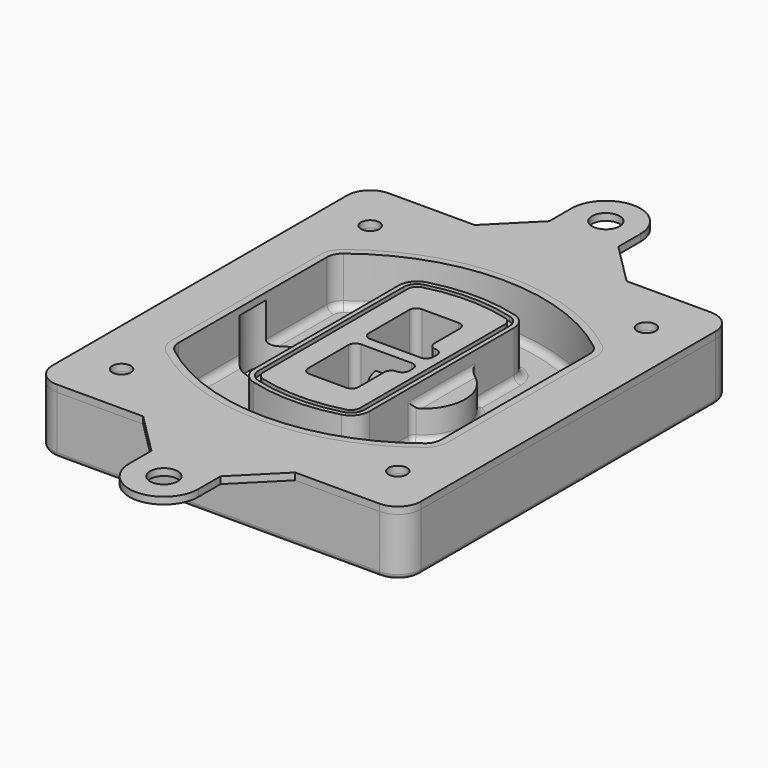
from build123d import *

# Parameters (mm, degrees)
F0_R      = 4
F1_DEPTH  = 25
F2_DEPTH  = 3
F3_DEPTH  = 18
F5_DEPTH  = 21
F6_DEPTH  = 2
F8_DEPTH  = 20
F9_DEPTH  = 16
F10_DEPTH = 25
F7_R      = 6
F7_R_2    = 4
F11_DEPTH = 6
F13_DEPTH = 9
F14_R     = 3
F15_R     = 2
F16_R     = 4
F16_R_2   = 6
F17_DEPTH = 3


with BuildPart() as f1:
    # F0 (on Top) → F1 (new body)
    with BuildSketch(Plane.XY):
        with BuildLine():
            ThreePointArc((-80, -80), (-77.0710678119, -87.0710678119), (-70, -90))
            Line((-70, -90), (70, -90))
            ThreePointArc((70, -90), (77.0710678119, -87.0710678119), (80, -80))
            Line((80, -80), (80, 80))
            ThreePointArc((80, 80), (77.0710678119, 87.0710678119), (70, 90))
            Line((70, 90), (-70, 90))
            ThreePointArc((-70, 90), (-77.0710678119, 87.0710678119), (-80, 80))
            Line((-80, 80), (-80, -80))
        make_face()
        with Locations((-60, -67.5)):
            Circle(F0_R, mode=Mode.SUBTRACT)
        with Locations((60, -67.5)):
            Circle(F0_R, mode=Mode.SUBTRACT)
        with Locations((-60, 67.5)):
            Circle(F0_R, mode=Mode.SUBTRACT)
        with BuildLine():
            ThreePointArc((-64, 40.2934422872), (-62.5820384798, 46.4328484224), (-58.6153846154, 51.3286200352))
            ThreePointArc((-58.6153846154, 51.3286200352), (0, 71.5), (58.6153846154, 51.3286200352))
            ThreePointArc((58.6153846154, 51.3286200352), (62.5820384798, 46.4328484224), (64, 40.2934422872))
            Line((64, 40.2934422872), (64, -40.2934422872))
            ThreePointArc((64, -40.2934422872), (62.5820384798, -46.4328484224), (58.6153846154, -51.3286200352))
            ThreePointArc((58.6153846154, -51.3286200352), (0, -71.5), (-58.6153846154, -51.3286200352))
            ThreePointArc((-58.6153846154, -51.3286200352), (-62.5820384798, -46.4328484224), (-64, -40.2934422872))
            Line((-64, -40.2934422872), (-64, 40.2934422872))
        make_face(mode=Mode.SUBTRACT)
        with Locations((60, 67.5)):
            Circle(F0_R, mode=Mode.SUBTRACT)
        with BuildLine():
            ThreePointArc((58.6153846154, 51.3286200352), (0, 71.5), (-58.6153846154, 51.3286200352))
            ThreePointArc((-58.6153846154, 51.3286200352), (-62.5820384798, 46.4328484224), (-64, 40.2934422872))
            Line((-64, 40.2934422872), (-64, -40.2934422872))
            ThreePointArc((-64, -40.2934422872), (-62.5820384798, -46.4328484224), (-58.6153846154, -51.3286200352))
            ThreePointArc((-58.6153846154, -51.3286200352), (0, -71.5), (58.6153846154, -51.3286200352))
            ThreePointArc((58.6153846154, -51.3286200352), (62.5820384798, -46.4328484224), (64, -40.2934422872))
            Line((64, -40.2934422872), (64, 40.2934422872))
            ThreePointArc((64, 40.2934422872), (62.5820384798, 46.4328484224), (58.6153846154, 51.3286200352))
        make_face()
        with BuildLine():
            Line((-60, -40.2934422872), (-60, 40.2934422872))
            ThreePointArc((-60, 40.2934422872), (-58.9871703427, 44.6787323838), (-56.1538461538, 48.1757121072))
            ThreePointArc((-56.1538461538, 48.1757121072), (0, 67.5), (56.1538461538, 48.1757121072))
            ThreePointArc((56.1538461538, 48.1757121072), (58.9871703427, 44.6787323838), (60, 40.2934422872))
            Line((60, 40.2934422872), (60, -40.2934422872))
            ThreePointArc((60, -40.2934422872), (58.9871703427, -44.6787323838), (56.1538461538, -48.1757121072))
            ThreePointArc((56.1538461538, -48.1757121072), (0, -67.5), (-56.1538461538, -48.1757121072))
            ThreePointArc((-56.1538461538, -48.1757121072), (-58.9871703427, -44.6787323838), (-60, -40.2934422872))
        make_face(mode=Mode.SUBTRACT)
        with BuildLine():
            ThreePointArc((-56.1538461538, 48.1757121072), (-58.9871703427, 44.6787323838), (-60, 40.2934422872))
            Line((-60, 40.2934422872), (-60, -40.2934422872))
            ThreePointArc((-60, -40.2934422872), (-58.9871703427, -44.6787323838), (-56.1538461538, -48.1757121072))
            ThreePointArc((-56.1538461538, -48.1757121072), (0, -67.5), (56.1538461538, -48.1757121072))
            ThreePointArc((56.1538461538, -48.1757121072), (58.9871703427, -44.6787323838), (60, -40.2934422872))
            Line((60, -40.2934422872), (60, 40.2934422872))
            ThreePointArc((60, 40.2934422872), (58.9871703427, 44.6787323838), (56.1538461538, 48.1757121072))
            ThreePointArc((56.1538461538, 48.1757121072), (0, 67.5), (-56.1538461538, 48.1757121072))
        make_face()
        with BuildLine():
            ThreePointArc((54.3076923077, 45.8110311612), (56.2910192399, 43.3631453548), (57, 40.2934422872))
            Line((57, 40.2934422872), (57, -40.2934422872))
            ThreePointArc((57, -40.2934422872), (56.2910192399, -43.3631453548), (54.3076923077, -45.8110311612))
            ThreePointArc((54.3076923077, -45.8110311612), (0, -64.5), (-54.3076923077, -45.8110311612))
            ThreePointArc((-54.3076923077, -45.8110311612), (-56.2910192399, -43.3631453548), (-57, -40.2934422872))
            Line((-57, -40.2934422872), (-57, 40.2934422872))
            ThreePointArc((-57, 40.2934422872), (-56.2910192399, 43.3631453548), (-54.3076923077, 45.8110311612))
            ThreePointArc((-54.3076923077, 45.8110311612), (0, 64.5), (54.3076923077, 45.8110311612))
        make_face(mode=Mode.SUBTRACT)
        with BuildLine():
            Line((57, -40.2934422872), (57, 40.2934422872))
            ThreePointArc((57, 40.2934422872), (56.2910192399, 43.3631453548), (54.3076923077, 45.8110311612))
            ThreePointArc((54.3076923077, 45.8110311612), (0, 64.5), (-54.3076923077, 45.8110311612))
            ThreePointArc((-54.3076923077, 45.8110311612), (-56.2910192399, 43.3631453548), (-57, 40.2934422872))
            Line((-57, 40.2934422872), (-57, -40.2934422872))
            ThreePointArc((-57, -40.2934422872), (-56.2910192399, -43.3631453548), (-54.3076923077, -45.8110311612))
            ThreePointArc((-54.3076923077, -45.8110311612), (0, -64.5), (54.3076923077, -45.8110311612))
            ThreePointArc((54.3076923077, -45.8110311612), (56.2910192399, -43.3631453548), (57, -40.2934422872))
        make_face()
    extrude(amount=-F1_DEPTH)

    # F0 (on Top) → F2 (join)
    with BuildSketch(Plane.XY):
        with BuildLine():
            ThreePointArc((-56.1538461538, 48.1757121072), (-58.9871703427, 44.6787323838), (-60, 40.2934422872))
            Line((-60, 40.2934422872), (-60, -40.2934422872))
            ThreePointArc((-60, -40.2934422872), (-58.9871703427, -44.6787323838), (-56.1538461538, -48.1757121072))
            ThreePointArc((-56.1538461538, -48.1757121072), (0, -67.5), (56.1538461538, -48.1757121072))
            ThreePointArc((56.1538461538, -48.1757121072), (58.9871703427, -44.6787323838), (60, -40.2934422872))
            Line((60, -40.2934422872), (60, 40.2934422872))
            ThreePointArc((60, 40.2934422872), (58.9871703427, 44.6787323838), (56.1538461538, 48.1757121072))
            ThreePointArc((56.1538461538, 48.1757121072), (0, 67.5), (-56.1538461538, 48.1757121072))
        make_face()
        with BuildLine():
            ThreePointArc((54.3076923077, 45.8110311612), (56.2910192399, 43.3631453548), (57, 40.2934422872))
            Line((57, 40.2934422872), (57, -40.2934422872))
            ThreePointArc((57, -40.2934422872), (56.2910192399, -43.3631453548), (54.3076923077, -45.8110311612))
            ThreePointArc((54.3076923077, -45.8110311612), (0, -64.5), (-54.3076923077, -45.8110311612))
            ThreePointArc((-54.3076923077, -45.8110311612), (-56.2910192399, -43.3631453548), (-57, -40.2934422872))
            Line((-57, -40.2934422872), (-57, 40.2934422872))
            ThreePointArc((-57, 40.2934422872), (-56.2910192399, 43.3631453548), (-54.3076923077, 45.8110311612))
            ThreePointArc((-54.3076923077, 45.8110311612), (0, 64.5), (54.3076923077, 45.8110311612))
        make_face(mode=Mode.SUBTRACT)
    extrude(amount=F2_DEPTH)

    # F0 (on Top) → F3 (cut)
    with BuildSketch(Plane.XY):
        with BuildLine():
            Line((57, -40.2934422872), (57, 40.2934422872))
            ThreePointArc((57, 40.2934422872), (56.2910192399, 43.3631453548), (54.3076923077, 45.8110311612))
            ThreePointArc((54.3076923077, 45.8110311612), (0, 64.5), (-54.3076923077, 45.8110311612))
            ThreePointArc((-54.3076923077, 45.8110311612), (-56.2910192399, 43.3631453548), (-57, 40.2934422872))
            Line((-57, 40.2934422872), (-57, -40.2934422872))
            ThreePointArc((-57, -40.2934422872), (-56.2910192399, -43.3631453548), (-54.3076923077, -45.8110311612))
            ThreePointArc((-54.3076923077, -45.8110311612), (0, -64.5), (54.3076923077, -45.8110311612))
            ThreePointArc((54.3076923077, -45.8110311612), (56.2910192399, -43.3631453548), (57, -40.2934422872))
        make_face()
    extrude(amount=-F3_DEPTH, mode=Mode.SUBTRACT)

    # F4 (on face) → F5 (join, through all)
    with BuildSketch(Plane.XY.offset(3)):
        with BuildLine():
            ThreePointArc((-25, -39.2465276821), (-23.3511545998, -44.1109737193), (-19.0842911877, -46.9702398883))
            ThreePointArc((-19.0842911877, -46.9702398883), (0, -49.5), (19.0842911877, -46.9702398883))
            ThreePointArc((19.0842911877, -46.9702398883), (23.3511545998, -44.1109737193), (25, -39.2465276821))
            Line((25, -39.2465276821), (25, 39.2465276821))
            ThreePointArc((25, 39.2465276821), (23.3511545998, 44.1109737193), (19.0842911877, 46.9702398883))
            ThreePointArc((19.0842911877, 46.9702398883), (0, 49.5), (-19.0842911877, 46.9702398883))
            ThreePointArc((-19.0842911877, 46.9702398883), (-23.3511545998, 44.1109737193), (-25, 39.2465276821))
            Line((-25, 39.2465276821), (-25, -39.2465276821))
        make_face()
        with BuildLine():
            ThreePointArc((18.5632183908, 45.0393118368), (21.7633659499, 42.89486221), (23, 39.2465276821))
            Line((23, 39.2465276821), (23, -39.2465276821))
            ThreePointArc((23, -39.2465276821), (21.7633659499, -42.89486221), (18.5632183908, -45.0393118368))
            ThreePointArc((18.5632183908, -45.0393118368), (0, -47.5), (-18.5632183908, -45.0393118368))
            ThreePointArc((-18.5632183908, -45.0393118368), (-21.7633659499, -42.89486221), (-23, -39.2465276821))
            Line((-23, -39.2465276821), (-23, 39.2465276821))
            ThreePointArc((-23, 39.2465276821), (-21.7633659499, 42.89486221), (-18.5632183908, 45.0393118368))
            ThreePointArc((-18.5632183908, 45.0393118368), (0, 47.5), (18.5632183908, 45.0393118368))
        make_face(mode=Mode.SUBTRACT)
        with BuildLine():
            Line((23, -39.2465276821), (23, 39.2465276821))
            ThreePointArc((23, 39.2465276821), (21.7633659499, 42.89486221), (18.5632183908, 45.0393118368))
            ThreePointArc((18.5632183908, 45.0393118368), (0, 47.5), (-18.5632183908, 45.0393118368))
            ThreePointArc((-18.5632183908, 45.0393118368), (-21.7633659499, 42.89486221), (-23, 39.2465276821))
            Line((-23, 39.2465276821), (-23, -39.2465276821))
            ThreePointArc((-23, -39.2465276821), (-21.7633659499, -42.89486221), (-18.5632183908, -45.0393118368))
            ThreePointArc((-18.5632183908, -45.0393118368), (0, -47.5), (18.5632183908, -45.0393118368))
            ThreePointArc((18.5632183908, -45.0393118368), (21.7633659499, -42.89486221), (23, -39.2465276821))
        make_face()
        with BuildLine():
            ThreePointArc((18.0421455939, 43.1083837852), (20.1755772999, 41.6787507007), (21, 39.2465276821))
            Line((21, 39.2465276821), (21, -39.2465276821))
            ThreePointArc((21, -39.2465276821), (20.1755772999, -41.6787507007), (18.0421455939, -43.1083837852))
            ThreePointArc((18.0421455939, -43.1083837852), (0, -45.5), (-18.0421455939, -43.1083837852))
            ThreePointArc((-18.0421455939, -43.1083837852), (-20.1755772999, -41.6787507007), (-21, -39.2465276821))
            Line((-21, -39.2465276821), (-21, 39.2465276821))
            ThreePointArc((-21, 39.2465276821), (-20.1755772999, 41.6787507007), (-18.0421455939, 43.1083837852))
            ThreePointArc((-18.0421455939, 43.1083837852), (0, 45.5), (18.0421455939, 43.1083837852))
        make_face(mode=Mode.SUBTRACT)
        with BuildLine():
            Line((21, -39.2465276821), (21, 39.2465276821))
            ThreePointArc((21, 39.2465276821), (20.1755772999, 41.6787507007), (18.0421455939, 43.1083837852))
            ThreePointArc((18.0421455939, 43.1083837852), (0, 45.5), (-18.0421455939, 43.1083837852))
            ThreePointArc((-18.0421455939, 43.1083837852), (-20.1755772999, 41.6787507007), (-21, 39.2465276821))
            Line((-21, 39.2465276821), (-21, -39.2465276821))
            ThreePointArc((-21, -39.2465276821), (-20.1755772999, -41.6787507007), (-18.0421455939, -43.1083837852))
            ThreePointArc((-18.0421455939, -43.1083837852), (0, -45.5), (18.0421455939, -43.1083837852))
            ThreePointArc((18.0421455939, -43.1083837852), (20.1755772999, -41.6787507007), (21, -39.2465276821))
        make_face()
        with BuildLine():
            Line((-8, -2.5), (14, -2.5))
            ThreePointArc((14, -2.5), (16.1213203436, -3.3786796564), (17, -5.5))
            Line((17, -5.5), (17, -7.5))
            ThreePointArc((17, -7.5), (16.1213203436, -9.6213203436), (14, -10.5))
            ThreePointArc((14, -10.5), (11.8786796564, -11.3786796564), (11, -13.5))
            Line((11, -13.5), (11, -27.5))
            ThreePointArc((11, -27.5), (10.1213203436, -29.6213203436), (8, -30.5))
            Line((8, -30.5), (-8, -30.5))
            ThreePointArc((-8, -30.5), (-10.1213203436, -29.6213203436), (-11, -27.5))
            Line((-11, -27.5), (-11, -5.5))
            ThreePointArc((-11, -5.5), (-10.1213203436, -3.3786796564), (-8, -2.5))
        make_face(mode=Mode.SUBTRACT)
        with BuildLine():
            ThreePointArc((-8, 2.5), (-10.1213203436, 3.3786796564), (-11, 5.5))
            Line((-11, 5.5), (-11, 27.5))
            ThreePointArc((-11, 27.5), (-10.1213203436, 29.6213203436), (-8, 30.5))
            Line((-8, 30.5), (8, 30.5))
            ThreePointArc((8, 30.5), (10.1213203436, 29.6213203436), (11, 27.5))
            Line((11, 27.5), (11, 13.5))
            ThreePointArc((11, 13.5), (11.8786796564, 11.3786796564), (14, 10.5))
            ThreePointArc((14, 10.5), (16.1213203436, 9.6213203436), (17, 7.5))
            Line((17, 7.5), (17, 5.5))
            ThreePointArc((17, 5.5), (16.1213203436, 3.3786796564), (14, 2.5))
            Line((14, 2.5), (-8, 2.5))
        make_face(mode=Mode.SUBTRACT)
    extrude(amount=-F5_DEPTH)

    # F4 (on face) → F6 (cut)
    with BuildSketch(Plane.XY.offset(3)):
        with BuildLine():
            Line((23, -39.2465276821), (23, 39.2465276821))
            ThreePointArc((23, 39.2465276821), (21.7633659499, 42.89486221), (18.5632183908, 45.0393118368))
            ThreePointArc((18.5632183908, 45.0393118368), (0, 47.5), (-18.5632183908, 45.0393118368))
            ThreePointArc((-18.5632183908, 45.0393118368), (-21.7633659499, 42.89486221), (-23, 39.2465276821))
            Line((-23, 39.2465276821), (-23, -39.2465276821))
            ThreePointArc((-23, -39.2465276821), (-21.7633659499, -42.89486221), (-18.5632183908, -45.0393118368))
            ThreePointArc((-18.5632183908, -45.0393118368), (0, -47.5), (18.5632183908, -45.0393118368))
            ThreePointArc((18.5632183908, -45.0393118368), (21.7633659499, -42.89486221), (23, -39.2465276821))
        make_face()
        with BuildLine():
            ThreePointArc((18.0421455939, 43.1083837852), (20.1755772999, 41.6787507007), (21, 39.2465276821))
            Line((21, 39.2465276821), (21, -39.2465276821))
            ThreePointArc((21, -39.2465276821), (20.1755772999, -41.6787507007), (18.0421455939, -43.1083837852))
            ThreePointArc((18.0421455939, -43.1083837852), (0, -45.5), (-18.0421455939, -43.1083837852))
            ThreePointArc((-18.0421455939, -43.1083837852), (-20.1755772999, -41.6787507007), (-21, -39.2465276821))
            Line((-21, -39.2465276821), (-21, 39.2465276821))
            ThreePointArc((-21, 39.2465276821), (-20.1755772999, 41.6787507007), (-18.0421455939, 43.1083837852))
            ThreePointArc((-18.0421455939, 43.1083837852), (0, 45.5), (18.0421455939, 43.1083837852))
        make_face(mode=Mode.SUBTRACT)
    extrude(amount=-F6_DEPTH, mode=Mode.SUBTRACT)

    # F7 (on face) → F8 (join)
    with BuildSketch(Plane(origin=(0, 0, -25), x_dir=(1, 0, 0), z_dir=(0, 0, -1))):
        with BuildLine():
            ThreePointArc((3.28842436, 0), (16.7567035675, 13.4682792075), (30.224982775, 0))
            Line((30.224982775, 0), (35.224982775, 0))
            ThreePointArc((35.224982775, 0), (16.7567035675, 18.4682792075), (-1.71157564, 0))
            Line((-1.71157564, 0), (3.28842436, 0))
        make_face()
        with BuildLine():
            Line((3.28842436, 0), (30.224982775, 0))
            ThreePointArc((30.224982775, 0), (16.7567035675, 13.4682792075), (3.28842436, 0))
        make_face()
        with BuildLine():
            ThreePointArc((3.28842436, 0), (16.7567035675, -13.4682792075), (30.224982775, 0))
            Line((30.224982775, 0), (3.28842436, 0))
        make_face()
        with BuildLine():
            Line((35.224982775, 0), (30.224982775, 0))
            ThreePointArc((30.224982775, 0), (16.7567035675, -13.4682792075), (3.28842436, 0))
            Line((3.28842436, 0), (-1.71157564, 0))
            ThreePointArc((-1.71157564, 0), (16.7567035675, -18.4682792075), (35.224982775, 0))
        make_face()
    extrude(amount=-F8_DEPTH)

    # F7 (on face) → F9 (cut)
    with BuildSketch(Plane(origin=(0, 0, -25), x_dir=(1, 0, 0), z_dir=(0, 0, -1))):
        with BuildLine():
            Line((3.28842436, 0), (30.224982775, 0))
            ThreePointArc((30.224982775, 0), (16.7567035675, 13.4682792075), (3.28842436, 0))
        make_face()
        with BuildLine():
            ThreePointArc((3.28842436, 0), (16.7567035675, -13.4682792075), (30.224982775, 0))
            Line((30.224982775, 0), (3.28842436, 0))
        make_face()
    extrude(amount=-F9_DEPTH, mode=Mode.SUBTRACT)

    # F7 (on face) → F10 (cut)
    with BuildSketch(Plane(origin=(0, 0, -25), x_dir=(1, 0, 0), z_dir=(0, 0, -1))):
        with BuildLine():
            Line((-59.0318229325, 0), (-32.0952645175, 0))
            ThreePointArc((-32.0952645175, 0), (-45.563543725, 13.4682792075), (-59.0318229325, 0))
        make_face()
        with BuildLine():
            ThreePointArc((-59.0318229325, 0), (-45.563543725, -13.4682792075), (-32.0952645175, 0))
            Line((-32.0952645175, 0), (-59.0318229325, 0))
        make_face()
    extrude(amount=-F10_DEPTH, mode=Mode.SUBTRACT)

    # F7 (on face) → F11 (cut)
    with BuildSketch(Plane(origin=(0, 0, -25), x_dir=(1, 0, 0), z_dir=(0, 0, -1))):
        with Locations((60, -67.5)):
            Circle(F7_R)
        with Locations((60, -67.5)):
            Circle(F7_R_2, mode=Mode.SUBTRACT)
        with Locations((60, -67.5)):
            Circle(F7_R)
        with Locations((60, -67.5)):
            Circle(F7_R_2, mode=Mode.SUBTRACT)
        with Locations((-60, -67.5)):
            Circle(F7_R)
        with Locations((-60, -67.5)):
            Circle(F7_R_2, mode=Mode.SUBTRACT)
        with Locations((-60, -67.5)):
            Circle(F7_R)
        with Locations((-60, -67.5)):
            Circle(F7_R_2, mode=Mode.SUBTRACT)
        with Locations((-60, 67.5)):
            Circle(F7_R)
        with Locations((-60, 67.5)):
            Circle(F7_R_2, mode=Mode.SUBTRACT)
        with Locations((-60, 67.5)):
            Circle(F7_R)
        with Locations((-60, 67.5)):
            Circle(F7_R_2, mode=Mode.SUBTRACT)
        with Locations((60, 67.5)):
            Circle(F7_R)
        with Locations((60, 67.5)):
            Circle(F7_R_2, mode=Mode.SUBTRACT)
        with Locations((60, 67.5)):
            Circle(F7_R)
        with Locations((60, 67.5)):
            Circle(F7_R_2, mode=Mode.SUBTRACT)
    extrude(amount=-F11_DEPTH, mode=Mode.SUBTRACT)

    # F12 (on face) → F13 (cut, through all)
    with BuildSketch(Plane(origin=(0, 0, -9), x_dir=(1, 0, 0), z_dir=(0, 0, -1))):
        with BuildLine():
            Line((11, 13.5), (11, 17.5481537753))
            ThreePointArc((11, 17.5481537753), (2.5696536419, 11.8239143813), (-1.5415842455, 2.5))
            Line((-1.5415842455, 2.5), (3.5224848595, 2.5))
            ThreePointArc((3.5224848595, 2.5), (6.1857188154, 8.3455872281), (11.2536447004, 12.2927168648))
            ThreePointArc((11.2536447004, 12.2927168648), (11.0640958889, 12.8831798879), (11, 13.5))
        make_face()
        with BuildLine():
            ThreePointArc((11.2536447004, -12.2927168648), (6.1857188154, -8.3455872281), (3.5224848595, -2.5))
            Line((3.5224848595, -2.5), (-1.5415842455, -2.5))
            ThreePointArc((-1.5415842455, -2.5), (2.5696536419, -11.8239143813), (11, -17.5481537753))
            Line((11, -17.5481537753), (11, -13.5))
            ThreePointArc((11, -13.5), (11.0640958889, -12.8831798879), (11.2536447004, -12.2927168648))
        make_face()
        with BuildLine():
            ThreePointArc((11.2536447004, 12.2927168648), (6.1857188154, 8.3455872281), (3.5224848595, 2.5))
            Line((3.5224848595, 2.5), (14, 2.5))
            ThreePointArc((14, 2.5), (16.1213203436, 3.3786796564), (17, 5.5))
            Line((17, 5.5), (17, 7.5))
            ThreePointArc((17, 7.5), (16.1213203436, 9.6213203436), (14, 10.5))
            ThreePointArc((14, 10.5), (12.3601599782, 10.9878446101), (11.2536447004, 12.2927168648))
        make_face()
        with BuildLine():
            Line((14, -2.5), (3.5224848595, -2.5))
            ThreePointArc((3.5224848595, -2.5), (6.1857188154, -8.3455872281), (11.2536447004, -12.2927168648))
            ThreePointArc((11.2536447004, -12.2927168648), (12.3601599782, -10.9878446101), (14, -10.5))
            ThreePointArc((14, -10.5), (16.1213203436, -9.6213203436), (17, -7.5))
            Line((17, -7.5), (17, -5.5))
            ThreePointArc((17, -5.5), (16.1213203436, -3.3786796564), (14, -2.5))
        make_face()
    extrude(amount=F13_DEPTH, mode=Mode.SUBTRACT)

    # F14
    f14_edges = [f1.edges().sort_by_distance(p)[0] for p in [
        (-57, -23.703476, -18),
        (-57, 23.703476, -18),
        (25, 0, -5),
        (25, 16.526506, -11.5),
        (25, -16.526506, -11.5),
        (25, -27.886517, -18),
        (35.224983, 0, -18),
    ]]
    fillet(f14_edges, radius=F14_R)

    # F15
    f15_edges = [f1.edges().sort_by_distance(p)[0] for p in [
        (0, -90, -25),
    ]]
    fillet(f15_edges, radius=F15_R)


with BuildPart() as f17:
    # F16 (on face) → F17 (new body, through all)
    with BuildSketch(Plane.XY):
        with BuildLine():
            Line((-32.6188153431, 90), (-70, 90))
            ThreePointArc((-70, 90), (-77.0710678119, 87.0710678119), (-80, 80))
            Line((-80, 80), (-80, -80))
            ThreePointArc((-80, -80), (-77.0710678119, -87.0710678119), (-70, -90))
            Line((-70, -90), (-32.6188153431, -90))
            Line((-32.6188153431, -90), (33.3811846569, -90))
            Line((33.3811846569, -90), (70, -90))
            ThreePointArc((70, -90), (77.0710678119, -87.0710678119), (80, -80))
            Line((80, -80), (80, 80))
            ThreePointArc((80, 80), (77.0710678119, 87.0710678119), (70, 90))
            Line((70, 90), (33.3811846569, 90))
            Line((33.3811846569, 90), (-32.6188153431, 90))
        make_face()
        with Locations((-60, -67.5)):
            Circle(F16_R, mode=Mode.SUBTRACT)
        with Locations((60, -67.5)):
            Circle(F16_R, mode=Mode.SUBTRACT)
        with Locations((-60, 67.5)):
            Circle(F16_R, mode=Mode.SUBTRACT)
        with BuildLine():
            ThreePointArc((-56.1538461538, 48.1757121072), (0, 67.5), (56.1538461538, 48.1757121072))
            ThreePointArc((56.1538461538, 48.1757121072), (58.9871703427, 44.6787323838), (60, 40.2934422872))
            Line((60, 40.2934422872), (60, -40.2934422872))
            ThreePointArc((60, -40.2934422872), (58.9871703427, -44.6787323838), (56.1538461538, -48.1757121072))
            ThreePointArc((56.1538461538, -48.1757121072), (0, -67.5), (-56.1538461538, -48.1757121072))
            ThreePointArc((-56.1538461538, -48.1757121072), (-58.9871703427, -44.6787323838), (-60, -40.2934422872))
            Line((-60, -40.2934422872), (-60, 40.2934422872))
            ThreePointArc((-60, 40.2934422872), (-58.9871703427, 44.6787323838), (-56.1538461538, 48.1757121072))
        make_face(mode=Mode.SUBTRACT)
        with Locations((60, 67.5)):
            Circle(F16_R, mode=Mode.SUBTRACT)
        with BuildLine():
            Line((-14.6188153431, 108), (-32.6188153431, 90))
            Line((-32.6188153431, 90), (33.3811846569, 90))
            Line((33.3811846569, 90), (15.3811846569, 108))
            Line((15.3811846569, 108), (15.3811846569, 120))
            ThreePointArc((15.3811846569, 120), (0.3811846569, 135), (-14.6188153431, 120))
            Line((-14.6188153431, 120), (-14.6188153431, 108))
        make_face()
        with Locations((0.3811846569, 120)):
            Circle(F16_R_2, mode=Mode.SUBTRACT)
        with BuildLine():
            Line((33.3811846569, -90), (-32.6188153431, -90))
            Line((-32.6188153431, -90), (-14.6188153431, -108))
            Line((-14.6188153431, -108), (-14.6188153431, -120))
            ThreePointArc((-14.6188153431, -120), (0.3811846569, -135), (15.3811846569, -120))
            Line((15.3811846569, -120), (15.3811846569, -108))
            Line((15.3811846569, -108), (33.3811846569, -90))
        make_face()
        with Locations((0.3811846569, -120)):
            Circle(F16_R_2, mode=Mode.SUBTRACT)
    extrude(amount=F17_DEPTH)


solid = Compound([f1.part, f17.part])
